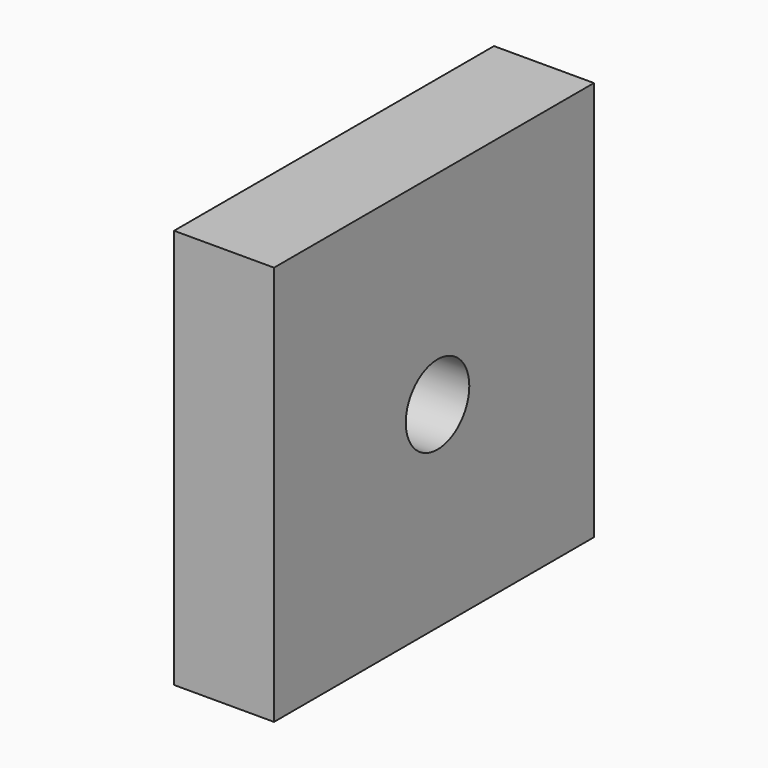
from build123d import *

# Parameters (mm, degrees)
F0_W     = 25.4
F0_H     = 25.4
F1_DEPTH = 6.35
F2_R     = 2.52222
F3_DEPTH = 25.4


with BuildPart() as f1:
    # F0 (on Right) → F1 (new body)
    with BuildSketch(Plane.YZ):
        with Locations((12.7, 12.7)):
            Rectangle(F0_W, F0_H)
    extrude(amount=F1_DEPTH)

    # F2 (on face) → F3 (cut)
    with BuildSketch(Plane.YZ.offset(6.35)):
        with Locations((12.981366, 12.477624)):
            Circle(F2_R)
    extrude(amount=-F3_DEPTH, mode=Mode.SUBTRACT)


solid = f1.part
